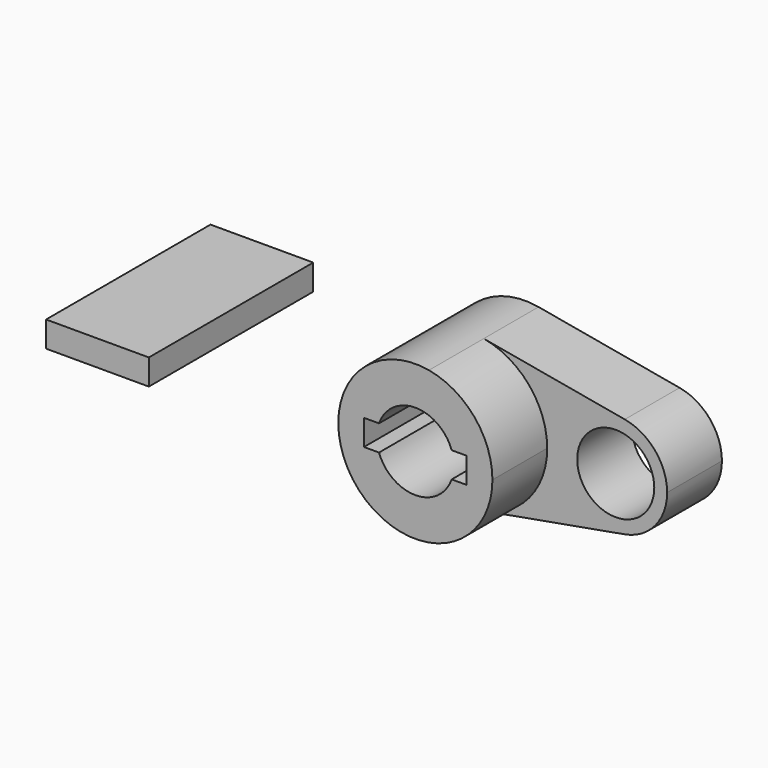
from build123d import *

# Parameters (mm, degrees)
F0_R     = 14.2875
F1_DEPTH = 25.4
F2_DEPTH = 50.8
F3_W     = 38.1
F3_H     = 9.525
F4_DEPTH = 76.2


with BuildPart() as f1:
    # F0 (on Front) → F1 (new body)
    with BuildSketch(Plane.XZ):
        with BuildLine():
            ThreePointArc((5.039615, -28.127085), (21.915036, -18.337443), (28.575, 0))
            ThreePointArc((28.575, 0), (21.915036, 18.337443), (5.039615, 28.127085))
            ThreePointArc((5.039615, 28.127085), (-28.575, 0), (5.039615, -28.127085))
        make_face()
        with BuildLine():
            ThreePointArc((-13.470384, 4.7625), (0, 14.2875), (13.470384, 4.7625))
            Line((13.470384, 4.7625), (19.05, 4.7625))
            Line((19.05, 4.7625), (19.05, -4.7625))
            Line((19.05, -4.7625), (13.470384, -4.7625))
            ThreePointArc((13.470384, -4.7625), (0, -14.2875), (-13.470384, -4.7625))
            Line((-13.470384, -4.7625), (-19.05, -4.7625))
            Line((-19.05, -4.7625), (-19.05, 4.7625))
            Line((-19.05, 4.7625), (-13.470384, 4.7625))
        make_face(mode=Mode.SUBTRACT)
        with BuildLine():
            ThreePointArc((5.039615, 28.127085), (21.915036, 18.337443), (28.575, 0))
            ThreePointArc((28.575, 0), (21.915036, -18.337443), (5.039615, -28.127085))
            Line((5.039615, -28.127085), (57.335753, -18.757027))
            ThreePointArc((57.335753, -18.757027), (34.919273, 0), (57.335753, 18.757027))
            Line((57.335753, 18.757027), (5.039615, 28.127085))
        make_face()
        with BuildLine():
            ThreePointArc((73.030727, 0), (68.589417, 12.228637), (57.335753, 18.757027))
            ThreePointArc((57.335753, 18.757027), (34.919273, 0), (57.335753, -18.757027))
            ThreePointArc((57.335753, -18.757027), (68.589417, -12.228637), (73.030727, 0))
        make_face()
        with Locations((53.975, 0)):
            Circle(F0_R, mode=Mode.SUBTRACT)
    extrude(amount=F1_DEPTH)

    # F0 (on Front) → F2 (join)
    with BuildSketch(Plane.XZ):
        with BuildLine():
            ThreePointArc((5.039615, -28.127085), (21.915036, -18.337443), (28.575, 0))
            ThreePointArc((28.575, 0), (21.915036, 18.337443), (5.039615, 28.127085))
            ThreePointArc((5.039615, 28.127085), (-28.575, 0), (5.039615, -28.127085))
        make_face()
        with BuildLine():
            ThreePointArc((-13.470384, 4.7625), (0, 14.2875), (13.470384, 4.7625))
            Line((13.470384, 4.7625), (19.05, 4.7625))
            Line((19.05, 4.7625), (19.05, -4.7625))
            Line((19.05, -4.7625), (13.470384, -4.7625))
            ThreePointArc((13.470384, -4.7625), (0, -14.2875), (-13.470384, -4.7625))
            Line((-13.470384, -4.7625), (-19.05, -4.7625))
            Line((-19.05, -4.7625), (-19.05, 4.7625))
            Line((-19.05, 4.7625), (-13.470384, 4.7625))
        make_face(mode=Mode.SUBTRACT)
    extrude(amount=F2_DEPTH)


with BuildPart() as f4:
    # F3 (on Front) → F4 (new body)
    with BuildSketch(Plane.XZ):
        with Locations((-97.551199, 10.697308)):
            Rectangle(F3_W, F3_H)
    extrude(amount=F4_DEPTH)


solid = Compound([f1.part, f4.part])
